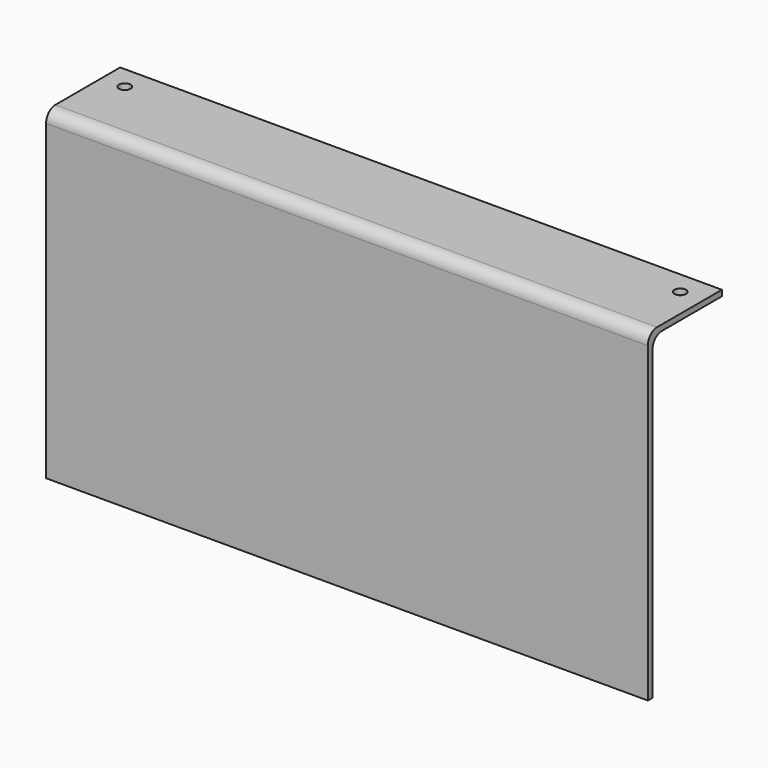
from build123d import *

# Parameters (mm, degrees)
F1_DEPTH = 330.2
F2_R     = 3.175
F3_DEPTH = 177.801


with BuildPart() as f1:
    # F0 (on Right) → F1 (new body)
    with BuildSketch(Plane.YZ):
        with BuildLine():
            Line((0, 171.45), (0, 0))
            Line((0, 0), (3.175, 0))
            Line((3.175, 0), (3.175, 168.275))
            ThreePointArc((3.175, 168.275), (5.034872, 172.765128), (9.525, 174.625))
            Line((9.525, 174.625), (50.8, 174.625))
            Line((50.8, 174.625), (50.8, 177.8))
            Line((50.8, 177.8), (6.35, 177.8))
            ThreePointArc((6.35, 177.8), (1.859872, 175.940128), (0, 171.45))
        make_face()
    extrude(amount=F1_DEPTH)

    # F2 (on face) → F3 (cut, through all)
    with BuildSketch(Plane.XY.offset(177.8)):
        with Locations((12.7, 38.1)):
            Circle(F2_R)
        with Locations((317.5, 38.1)):
            Circle(F2_R)
    extrude(amount=-F3_DEPTH, mode=Mode.SUBTRACT)


solid = f1.part
